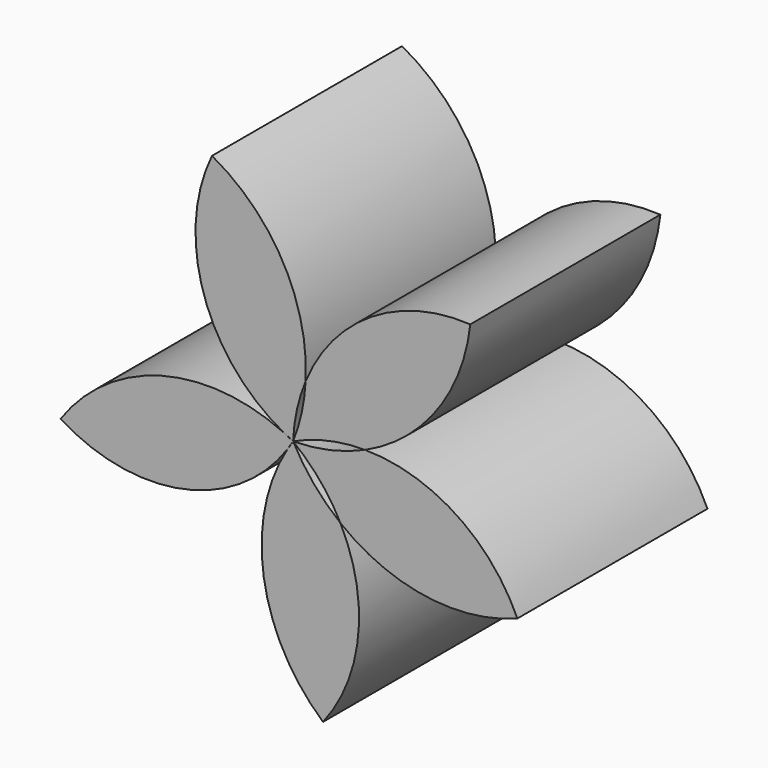
from build123d import *

# Parameters (mm, degrees)
F1_DEPTH = 25.4


with BuildPart() as f1:
    # F0 (on Front) → F1 (new body)
    with BuildSketch(Plane.XZ):
        with BuildLine():
            ThreePointArc((7.693491, 1.697066), (15.374251, 7.940055), (18.944869, 17.171506))
            ThreePointArc((18.944869, 17.171506), (8.375081, 14.444953), (1.340597, 6.098065))
            ThreePointArc((1.340597, 6.098065), (0.918808, 2.9944), (0, 0))
            ThreePointArc((0, 0), (3.752465, 1.275943), (7.693491, 1.697066))
        make_face()
        with BuildLine():
            ThreePointArc((23.979079, -8.875385), (17.38962, -1.196434), (7.693491, 1.697066))
            ThreePointArc((7.693491, 1.697066), (3.934361, 0.451338), (0, 0))
            ThreePointArc((0, 0), (2.864471, -2.739312), (5.057775, -6.040592))
            ThreePointArc((5.057775, -6.040592), (14.141954, -9.970818), (23.979079, -8.875385))
        make_face()
        with BuildLine():
            ThreePointArc((5.057775, -6.040592), (2.217027, -3.281416), (0, 0))
            ThreePointArc((0, 0), (-0.281886, -0.452604), (-0.577094, -0.896633))
            ThreePointArc((-0.577094, -0.896633), (-3.136669, -13.818759), (3.199744, -25.367899))
            ThreePointArc((3.199744, -25.367899), (6.968383, -15.977233), (5.057775, -6.040592))
        make_face()
        with BuildLine():
            ThreePointArc((-0.577094, -0.896633), (-0.294747, -0.444326), (0, 0))
            ThreePointArc((0, 0), (-0.48087, 0.230378), (-0.954683, 0.474941))
            ThreePointArc((-0.954683, 0.474941), (-14.079971, 1.597253), (-24.86185, -5.971356))
            ThreePointArc((-24.86185, -5.971356), (-11.701307, -8.306359), (-0.577094, -0.896633))
        make_face()
        with BuildLine():
            ThreePointArc((0, 0), (0.403054, 3.107783), (1.340597, 6.098065))
            ThreePointArc((1.340597, 6.098065), (-1.071818, 16.521757), (-8.670465, 24.053933))
            ThreePointArc((-8.670465, 24.053933), (-9.543338, 10.716384), (-0.954683, 0.474941))
            ThreePointArc((-0.954683, 0.474941), (-0.474057, 0.244072), (0, 0))
        make_face()
    extrude(amount=F1_DEPTH)


solid = f1.part
